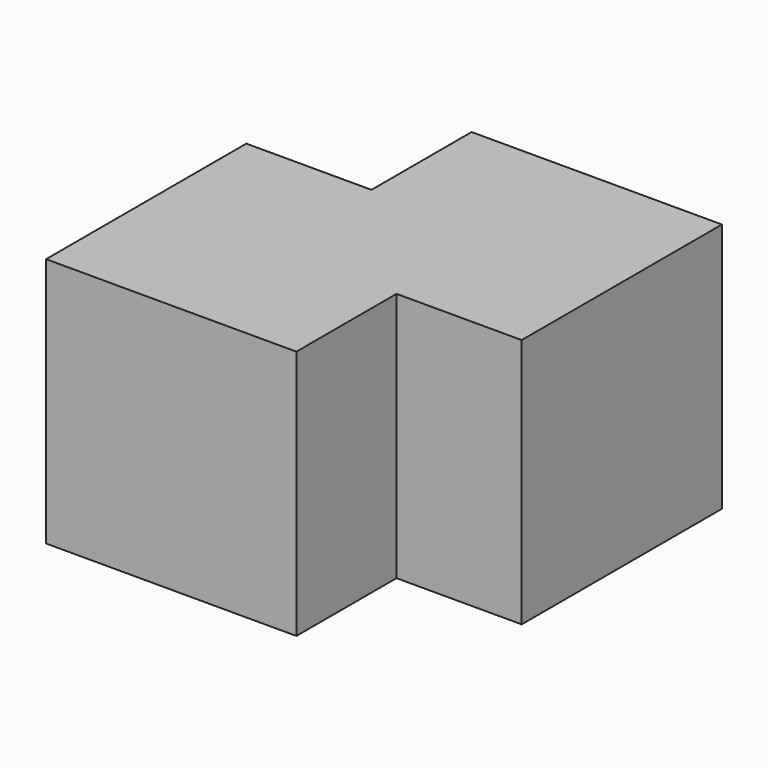
from build123d import *

# Parameters (mm, degrees)
BOX001_W     = 10
BOX001_H     = 10
BOX001_DEPTH = 10
BOX_W        = 10
BOX_H        = 10
BOX_DEPTH    = 10


with BuildPart() as cube001:
    # Box001 → Box001 (new body)
    with BuildSketch(Plane(origin=(5, 5, 0), x_dir=(1, 0, 0), z_dir=(0, 0, 1))):
        with Locations((5, 5)):
            Rectangle(BOX001_W, BOX001_H)
    extrude(amount=BOX001_DEPTH)


with BuildPart() as obj1:
    # Box → Box (new body)
    with BuildSketch(Plane.XY):
        with Locations((5, 5)):
            Rectangle(BOX_W, BOX_H)
    extrude(amount=BOX_DEPTH)

    # Fusion: union Cube001
    add(cube001.part)


solid = obj1.part
